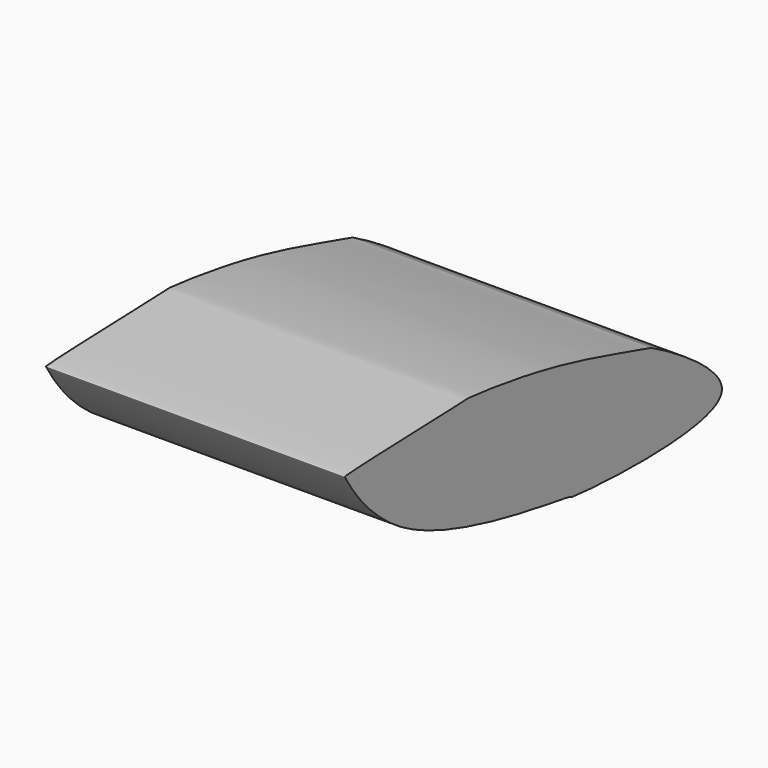
from build123d import *

# Parameters (mm, degrees)
F1_DEPTH = 25.4


with BuildPart() as f1:
    # F0 (on Right) → F1 (new body)
    with BuildSketch(Plane.YZ):
        with BuildLine():
            add(Edge.make_bspline(
                [(-1.1723396622, 5.5839868861), (3.332794294, 4.5870746688), (8.5196667761, 2.9000269742), (8.4017820167, 3.1226910787), (26.639260368, -6.8774401708), (-0.3031671917, -4.8967157729), (0.314092231, -4.5314223378), (-19.1602285648, -2.6878638824), (-23.8550046619, 6.4086542979), (-24.1157003975, 6.6943627102), (-10.9176990438, 7.0503858391), (-10.9432593628, 7.144695367), (-5.6120893684, 6.5664306419), (-1.1723396622, 5.5839868861)],
                knots=[0, 0, 0, 0, 0.1225506361, 0.134573398, 0.2570872218, 0.4130270808, 0.4186705611, 0.5836312764, 0.701897532, 0.7097032913, 0.8477052239, 0.8792279751, 1, 1, 1, 1], degree=3))
        make_face()
    extrude(amount=F1_DEPTH)


solid = f1.part
